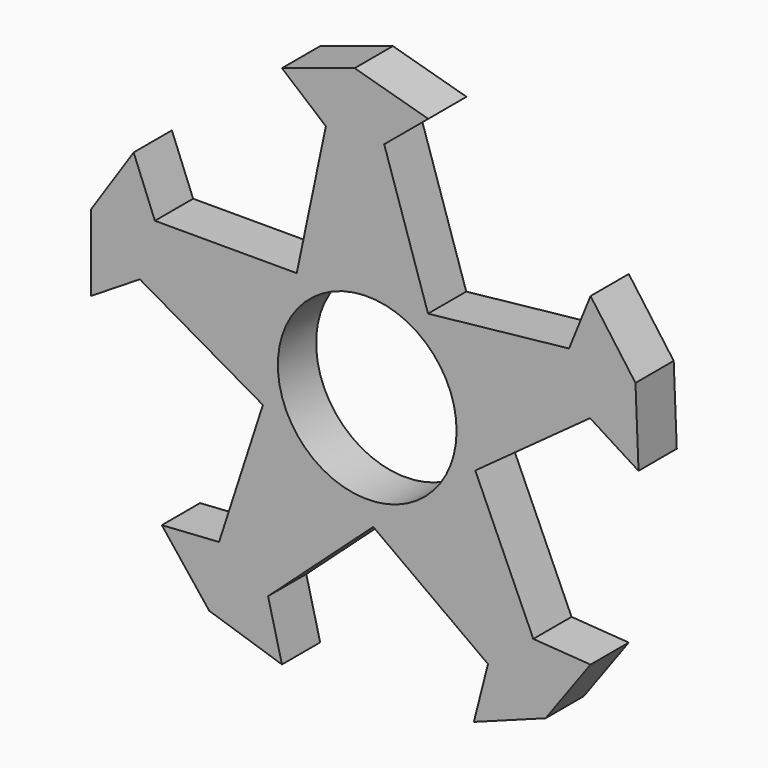
from build123d import *

# Parameters (mm, degrees)
F0_R     = 11.8745
F1_DEPTH = 6.35


with BuildPart() as f1:
    # F0 (on Front) → F1 (new body)
    with BuildSketch(Plane.XZ):
        Polygon((-5.49478, 29.980624), (-9.366401, 11.53666), (-28.212336, 11.53666), (-31.03726, 18.613679), (-36.672942, 10.16), (-36.672942, 0), (-30.211248, 4.038676), (-13.866393, -5.342953), (-19.690107, -23.266502), (-27.293702, -23.766246), (-20.995297, -31.738428), (-11.332562, -34.878041), (-13.176798, -27.484585), (0.796499, -14.838786), (16.04318, -25.916149), (14.168825, -33.302026), (23.697135, -29.775427), (29.669034, -21.555815), (22.067539, -21.025083), (14.358656, -3.827921), (29.605337, 7.249441), (36.050517, 3.184461), (35.640932, 13.336202), (29.669034, 21.555815), (26.815287, 14.490368), (8.077638, 12.473001), (2.253924, 30.39655), (8.11162, 35.270132), (-1.669828, 38.017653), (-11.332562, 34.878041), align=None)
        Circle(F0_R, mode=Mode.SUBTRACT)
    extrude(amount=F1_DEPTH)


solid = f1.part
